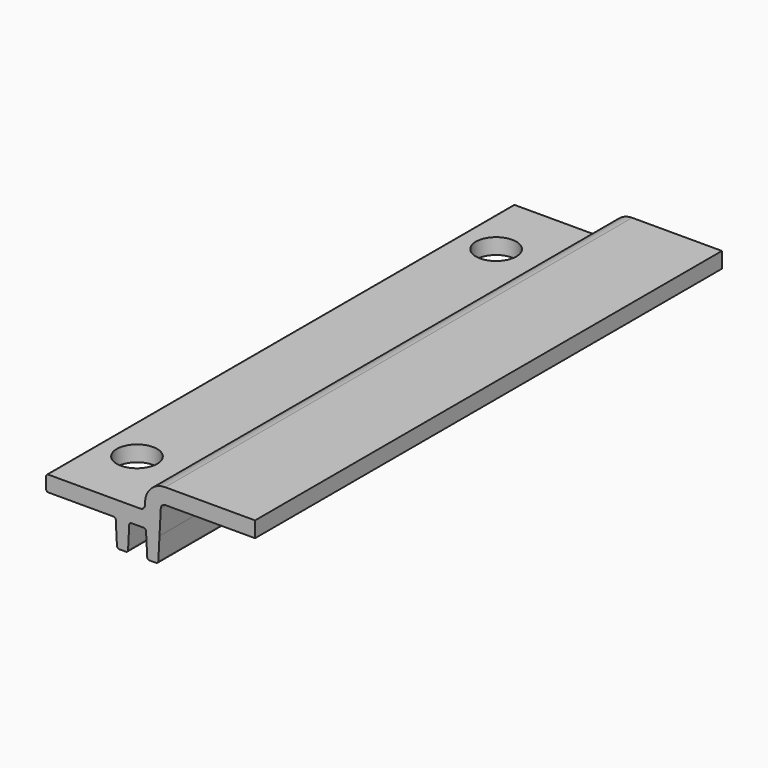
from build123d import *

# Parameters (mm, degrees)
F1_DEPTH = 130
F3_D     = 9
F4_D     = 9


with BuildPart() as f1:
    # F0 (on Front) → F1 (new body)
    with BuildSketch(Plane.XZ):
        with BuildLine():
            Line((25, -6.026168), (25.264782, -0.973832))
            Line((25.264782, -0.973832), (25.554396, 4.552336))
            ThreePointArc((25.554396, 4.552336), (25.864671, 5.225374), (26.553025, 5.5))
            Line((26.553025, 5.5), (46.553025, 5.5))
            Line((46.553025, 5.5), (46.553025, 9))
            Line((46.553025, 9), (26.553025, 9))
            ThreePointArc((26.553025, 9), (23.45543, 7.764185), (22.059193, 4.735512))
            Line((22.059193, 4.735512), (22.017903, 3.947664))
            ThreePointArc((22.017903, 3.947664), (21.707628, 3.274626), (21.019274, 3))
            Line((21.019274, 3), (0.5, 3))
            ThreePointArc((0.5, 3), (0.146447, 2.853553), (0, 2.5))
            Line((0, 2.5), (0, 0))
            ThreePointArc((0, 0), (0.146447, -0.353553), (0.5, -0.5))
            Line((0.5, -0.5), (15.025467, -0.5))
            ThreePointArc((15.025467, -0.5), (15.369644, -0.637313), (15.524782, -0.973832))
            Line((15.524782, -0.973832), (15.789563, -6.026168))
            ThreePointArc((15.789563, -6.026168), (15.944701, -6.362687), (16.288878, -6.5))
            Line((16.288878, -6.5), (17.760685, -6.5))
            ThreePointArc((17.760685, -6.5), (18.104863, -6.362687), (18.26, -6.026168))
            Line((18.26, -6.026168), (18.524782, -0.973832))
            ThreePointArc((18.524782, -0.973832), (18.679919, -0.637313), (19.024096, -0.5))
            Line((19.024096, -0.5), (21.765467, -0.5))
            ThreePointArc((21.765467, -0.5), (22.109644, -0.637313), (22.264782, -0.973832))
            Line((22.264782, -0.973832), (22.529563, -6.026168))
            ThreePointArc((22.529563, -6.026168), (22.684701, -6.362687), (23.028878, -6.5))
            Line((23.028878, -6.5), (24.500685, -6.5))
            ThreePointArc((24.500685, -6.5), (24.844863, -6.362687), (25, -6.026168))
        make_face()
    extrude(amount=F1_DEPTH)

    # F3 (through all)
    with Locations(Plane(origin=(0, 0, -0.5), x_dir=(1, 0, 0), z_dir=(0, 0, -1))):
        with Locations((8.25, 115)):
            Hole(F3_D / 2)

    # F4 (through all)
    with Locations(Plane(origin=(0, 0, -0.5), x_dir=(1, 0, 0), z_dir=(0, 0, -1))):
        with Locations((8.25, 15)):
            Hole(F4_D / 2)


solid = f1.part
